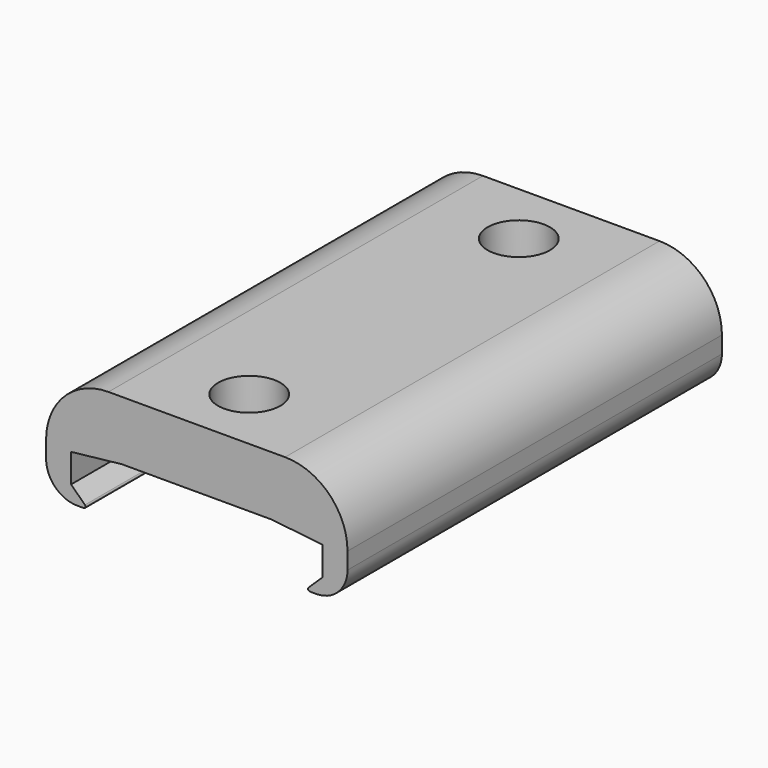
from build123d import *

# Parameters (mm, degrees)
F1_DEPTH = 75
F2_R     = 0.3
F3_R     = 10
F4_R     = 5
F6_R     = 3.25
F7_DEPTH = 25
F8_R     = 5
F8_R_2   = 3.25
F9_DEPTH = 6


with BuildPart() as f1:
    # F0 (on Front) → F1 (new body)
    with BuildSketch(Plane.XZ):
        Polygon((-20.15, 4.595843), (-12, 5.5), (12, 5.5), (20.15, 4.595843), (20.15, 0), (17.384257, -2.674988), (24.15, -2.674988), (24.15, 0), (24.15, 15), (-24.15, 15), (-24.15, 0), (-24.15, -2.674988), (-17.384257, -2.674988), (-20.15, 0), align=None)
    extrude(amount=F1_DEPTH)

    # F2
    f2_edges = [f1.edges().sort_by_distance(p)[0] for p in [
        (-17.384257, -37.5, -2.674988),
        (17.384257, -37.5, -2.674988),
    ]]
    fillet(f2_edges, radius=F2_R)

    # F3
    f3_edges = [f1.edges().sort_by_distance(p)[0] for p in [
        (-24.15, -37.5, 15),
        (24.15, -37.5, 15),
    ]]
    fillet(f3_edges, radius=F3_R)

    # F4
    f4_edges = [f1.edges().sort_by_distance(p)[0] for p in [
        (-24.15, -37.5, -2.674988),
        (24.15, -37.5, -2.674988),
    ]]
    fillet(f4_edges, radius=F4_R)


with BuildPart() as f1_1:
    # F5: moved
    add(f1.part.moved(Location((0, 37.5, 0))))

    # F6 (on face) → F7 (cut)
    with BuildSketch(Plane.XY.offset(15)):
        with Locations((0, 27)):
            Circle(F6_R)
        with Locations((0, -27)):
            Circle(F6_R)
    extrude(amount=-F7_DEPTH, mode=Mode.SUBTRACT)

    # F8 (on face) → F9 (cut)
    with BuildSketch(Plane.XY.offset(15)):
        with Locations((0, 27)):
            Circle(F8_R)
        with Locations((0, 27)):
            Circle(F8_R_2, mode=Mode.SUBTRACT)
        with Locations((0, -27)):
            Circle(F8_R)
        with Locations((0, -27)):
            Circle(F8_R_2, mode=Mode.SUBTRACT)
    extrude(amount=-F9_DEPTH, mode=Mode.SUBTRACT)


with BuildPart() as f1_2:
    # F10: moved
    add(f1_1.part.moved(Location((0, 0, -15))))


solid = f1_2.part
